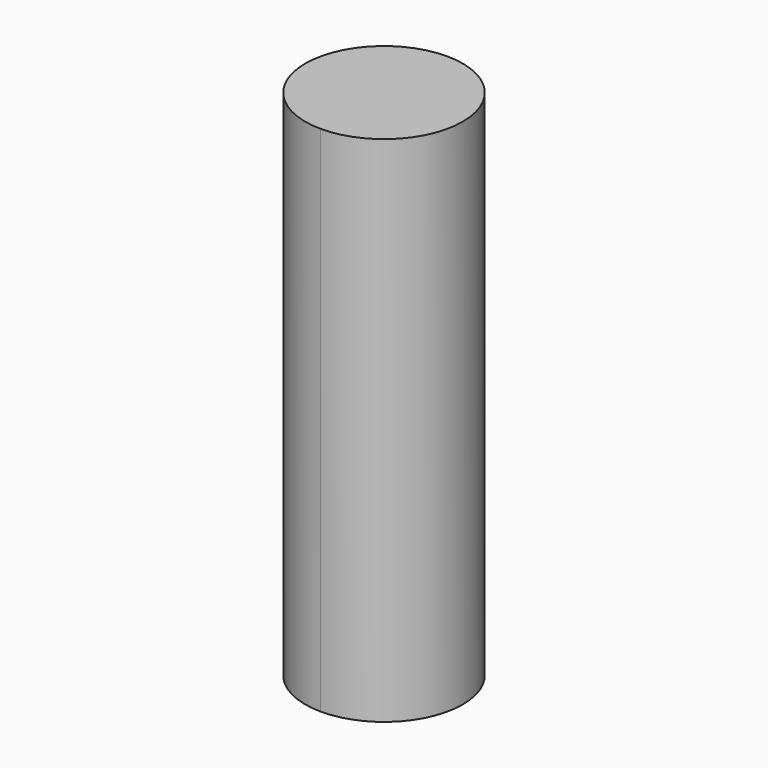
from build123d import *

# Parameters (mm, degrees)
F1_DEPTH = 254


with BuildPart() as f1:
    # F0 (on Top) → F1 (new body)
    with BuildSketch(Plane.XY):
        with BuildLine():
            ThreePointArc((0, 38.802788), (-38.799672, -0.184774), (0, -39.172336))
            ThreePointArc((0, -39.172336), (39.176362, -0.184774), (0, 38.802788))
        make_face()
    extrude(amount=F1_DEPTH)


solid = f1.part
